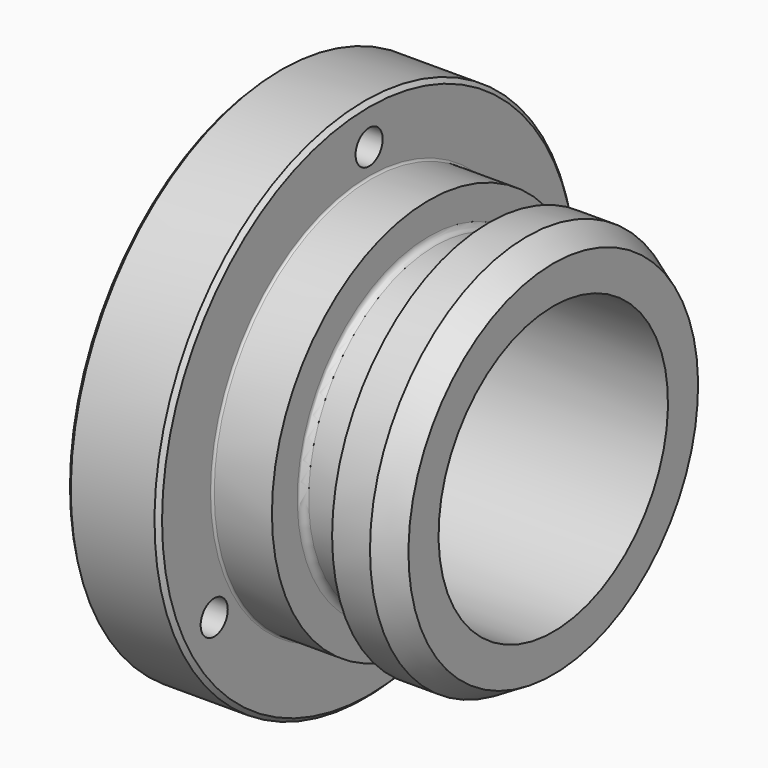
from build123d import *

# Parameters (mm, degrees)
F2_SIZE2 = 1.8330871047
F2_SIZE  = 3.175
F3_R     = 0.762
F4_R     = 0.254
F5_SIZE  = 0.508
F6_R     = 2.0447
F7_DEPTH = 25.4


with BuildPart() as f1:
    # F0 (on Front) → F1 (revolve)
    with BuildSketch(Plane.XZ):
        Polygon((11.1125, 23.68296), (11.1125, 31.75), (0, 31.75), (0, 17.3101), (33.3375, 17.3101), (33.3375, 23.68296), (25.5905, 23.68296), (25.5905, 19.09445), (18.3261, 19.09445), (18.3261, 23.68296), align=None)
    revolve(axis=Axis((23.780265148, 0, 0), (1, 0, 0)))

    # F2
    f2_edges = [f1.edges().sort_by_distance(p)[0] for p in [
        (33.3375, 0, -23.68296),
    ]]
    f2_side = f1.faces().sort_by_distance((29.464, 0, -23.68296))[0]
    chamfer(f2_edges, length=F2_SIZE, length2=F2_SIZE2, reference=f2_side)

    # F3
    f3_edges = [f1.edges().sort_by_distance(p)[0] for p in [
        (18.3261, 0, -19.09445),
        (25.5905, 0, -19.09445),
    ]]
    fillet(f3_edges, radius=F3_R)

    # F4
    f4_edges = [f1.edges().sort_by_distance(p)[0] for p in [
        (11.1125, 0, -23.68296),
    ]]
    fillet(f4_edges, radius=F4_R)

    # F5
    f5_edges = [f1.edges().sort_by_distance(p)[0] for p in [
        (11.1125, 0, -31.75),
        (0, 0, -31.75),
    ]]
    chamfer(f5_edges, length=F5_SIZE)

    # F6 (on Right) → F7 (cut)
    with BuildSketch(Plane.YZ):
        with Locations((0, 26.9875)):
            Circle(F6_R)
        with Locations((23.3718605846, -13.49375)):
            Circle(F6_R)
        with Locations((-23.3718605846, -13.49375)):
            Circle(F6_R)
    extrude(amount=F7_DEPTH, mode=Mode.SUBTRACT)


solid = f1.part
